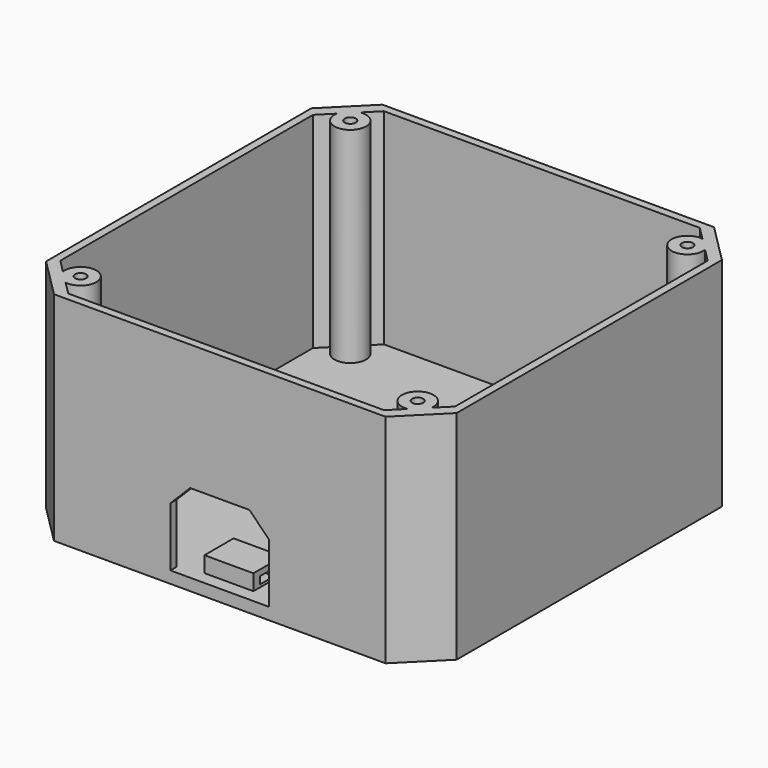
from build123d import *

# Parameters (mm, degrees)
SKETCH_W        = 104
SKETCH_H        = 104
PAD_DEPTH       = 3
SKETCH001_W     = 104
SKETCH001_H     = 104
SKETCH001_W_2   = 100
SKETCH001_H_2   = 100
PAD001_DEPTH    = 52
CHAMFER_SIZE    = 10
SKETCH003_W     = 25
SKETCH003_H     = 20
POCKET_DEPTH    = 5
CHAMFER001_SIZE = 5
SKETCH004_W     = 12.404821
SKETCH004_H     = 9.224227
PAD002_DEPTH    = 4
SKETCH005_R     = 4
SKETCH005_R_2   = 1.4
PAD003_DEPTH    = 52
SKETCH002_R     = 2.5
POCKET001_DEPTH = 5
SKETCH006_W     = 4.492853
SKETCH006_H     = 1.837998
POCKET002_DEPTH = 25


with BuildPart() as part:
    # Sketch → Pad (new body)
    with BuildSketch(Plane.XY):
        with Locations((0.627717, 3.703031)):
            Rectangle(SKETCH_W, SKETCH_H)
    extrude(amount=PAD_DEPTH)

    # Sketch001 → Pad001 (new body)
    with BuildSketch(Plane.XY.offset(3)):
        with Locations((0.627717, 3.703031)):
            Rectangle(SKETCH001_W, SKETCH001_H)
        with Locations((0.627717, 3.703031)):
            Rectangle(SKETCH001_W_2, SKETCH001_H_2, mode=Mode.SUBTRACT)
    extrude(amount=PAD001_DEPTH)

    # Chamfer
    chamfer_edges = [part.edges().sort_by_distance(p)[0] for p in [
        (-51.372283, 55.703031, 27.5),
        (52.627717, 55.703031, 27.5),
        (-51.372283, -48.296969, 27.5),
        (52.627717, -48.296969, 27.5),
        (-49.372283, 53.703031, 29),
        (50.627717, 53.703031, 29),
        (-49.372283, -46.296969, 29),
        (50.627717, -46.296969, 29),
    ]]
    chamfer(chamfer_edges, length=CHAMFER_SIZE)

    # Sketch003 → Pocket (cut)
    with BuildSketch(Plane.XZ.offset(48.296969)):
        with Locations((0.627717, 13)):
            Rectangle(SKETCH003_W, SKETCH003_H)
    extrude(amount=-POCKET_DEPTH, mode=Mode.SUBTRACT)

    # Chamfer001
    chamfer001_edges = [part.edges().sort_by_distance(p)[0] for p in [
        (-11.872283, -47.296969, 23),
        (13.127717, -47.296969, 23),
    ]]
    chamfer(chamfer001_edges, length=CHAMFER001_SIZE)

    # Sketch004 → Pad002 (new body)
    with BuildSketch(Plane.XY.offset(3)):
        with Locations((0.308178, -40.387887)):
            Rectangle(SKETCH004_W, SKETCH004_H)
    extrude(amount=PAD002_DEPTH)

    # Sketch005 → Pad003 (new body)
    with BuildSketch(Plane.XY.offset(3)):
        with Locations((-42.073699, 46.404447)):
            Circle(SKETCH005_R)
        with Locations((-42.073699, 46.404447)):
            Circle(SKETCH005_R_2, mode=Mode.SUBTRACT)
        with Locations((43.329133, 46.404447)):
            Circle(SKETCH005_R)
        with Locations((43.329133, 46.404447)):
            Circle(SKETCH005_R_2, mode=Mode.SUBTRACT)
        with Locations((-42.073699, -38.998385)):
            Circle(SKETCH005_R)
        with Locations((-42.073699, -38.998385)):
            Circle(SKETCH005_R_2, mode=Mode.SUBTRACT)
        with Locations((43.329133, -38.998385)):
            Circle(SKETCH005_R)
        with Locations((43.329133, -38.998385)):
            Circle(SKETCH005_R_2, mode=Mode.SUBTRACT)
    extrude(amount=PAD003_DEPTH)

    # Sketch002 → Pocket001 (cut)
    with BuildSketch(Plane.XY.offset(3)):
        with Locations((-42.372283, 3.703031)):
            Circle(SKETCH002_R)
        with Locations((43.627717, 3.703031)):
            Circle(SKETCH002_R)
    extrude(amount=-POCKET001_DEPTH, mode=Mode.SUBTRACT)

    # Sketch006 → Pocket002 (cut)
    with BuildSketch(Plane.YZ.offset(6.510589)):
        with Locations((-40.668302, 4.592406)):
            Rectangle(SKETCH006_W, SKETCH006_H)
    extrude(amount=-POCKET002_DEPTH, mode=Mode.SUBTRACT)


solid = part.part
